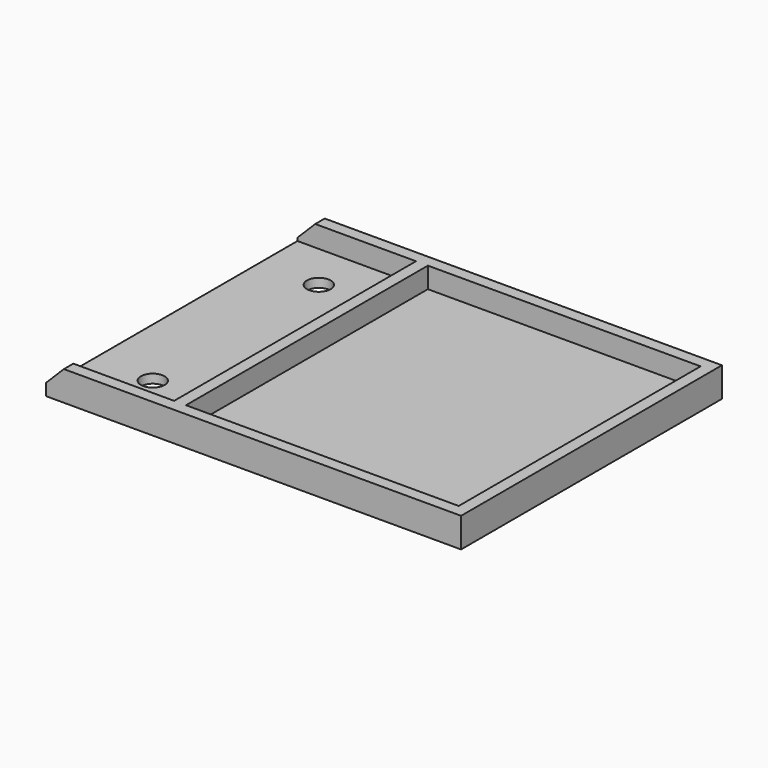
from build123d import *

# Parameters (mm, degrees)
F0_W     = 70
F0_H     = 55
F0_R     = 2
F0_R_2   = 1.55
F1_DEPTH = 1.5
F2_W     = 2
F2_H     = 51
F2_H_2   = 2
F2_W_2   = 20
F3_DEPTH = 3.5
F4_SIZE  = 3


with BuildPart() as f1:
    # F0 (on Top) → F1 (new body)
    with BuildSketch(Plane.XY):
        Rectangle(F0_W, F0_H)
        with Locations((-25, -17.5)):
            Circle(F0_R, mode=Mode.SUBTRACT)
        with Locations((31.45, -23.95)):
            Circle(F0_R_2, mode=Mode.SUBTRACT)
        with Locations((-25, 17.5)):
            Circle(F0_R, mode=Mode.SUBTRACT)
        with Locations((31.45, 23.95)):
            Circle(F0_R_2, mode=Mode.SUBTRACT)
    extrude(amount=-F1_DEPTH)

    # F2 (on face) → F3 (join)
    with BuildSketch(Plane.XY):
        with Locations((-14, 0)):
            Rectangle(F2_W, F2_H)
        Polygon((31.45, -25.5), (-13, -25.5), (-13, -27.5), (35, -27.5), (35, 27.5), (-13, 27.5), (-13, 25.5), (31.45, 25.5), (33, 25.5), (33, 23.95), (33, -23.95), (33, -25.5), align=None)
        with Locations((-14, -26.5)):
            Rectangle(F2_W, F2_H_2)
        with Locations((-25, -26.5)):
            Rectangle(F2_W_2, F2_H_2)
        with Locations((-14, 26.5)):
            Rectangle(F2_W, F2_H_2)
        with Locations((-25, 26.5)):
            Rectangle(F2_W_2, F2_H_2)
    extrude(amount=F3_DEPTH)

    # F4
    f4_edges = [f1.edges().sort_by_distance(p)[0] for p in [
        (-35, 26.5, 3.5),
        (-35, -26.5, 3.5),
    ]]
    chamfer(f4_edges, length=F4_SIZE)


solid = f1.part
